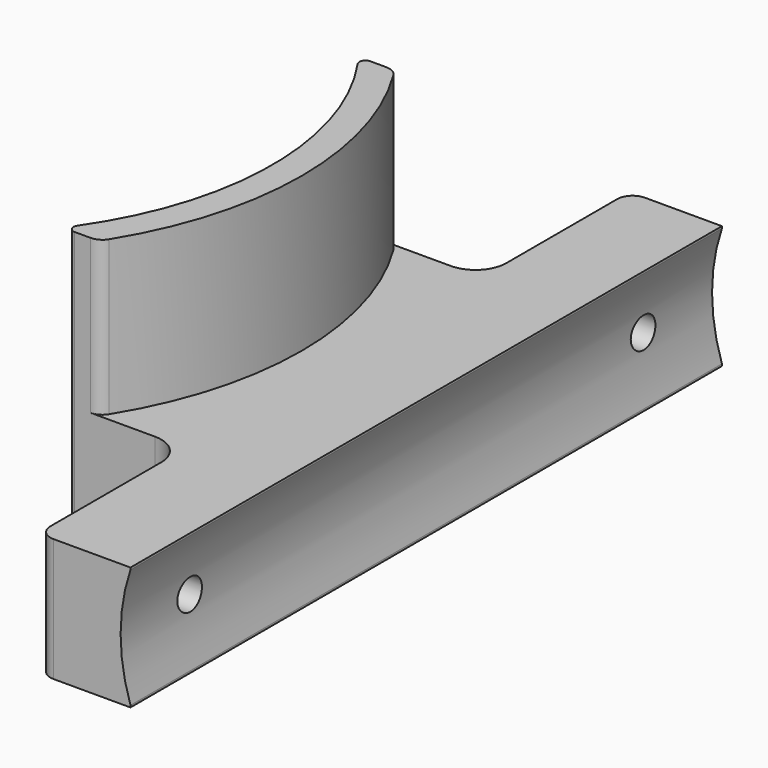
from build123d import *

# Parameters (mm, degrees)
F1_DEPTH      = 12.7
F3_DEPTH      = 28.575
F5_D          = 3.175
F6_D          = 3.175
F7_R          = 19.05
F8_DEPTH      = 46.99
F8_DEPTH_BACK = 44.196
F9_R          = 1.524
F10_R         = 1.524


with BuildPart() as f1:
    # F0 (on Top) → F1 (new body)
    with BuildSketch(Plane.XY):
        with BuildLine():
            ThreePointArc((29.1204104367, 19.05), (34.798, 0), (29.1204104367, -19.05))
            Line((29.1204104367, -19.05), (31.75, -19.05))
            Line((31.75, -19.05), (34.925, -19.05))
            ThreePointArc((34.925, -19.05), (37.1700640303, -19.9799359697), (38.1, -22.225))
            Line((38.1, -22.225), (38.1, -25.4))
            Line((38.1, -25.4), (38.1, -36.5125))
            ThreePointArc((38.1, -36.5125), (38.5649679849, -37.6350320151), (39.6875, -38.1))
            Line((39.6875, -38.1), (47.625, -38.1))
            Line((47.625, -38.1), (47.625, 38.1))
            Line((47.625, 38.1), (39.6875, 38.1))
            ThreePointArc((39.6875, 38.1), (38.5649679849, 37.6350320151), (38.1, 36.5125))
            Line((38.1, 36.5125), (38.1, 25.4))
            Line((38.1, 25.4), (38.1, 22.225))
            ThreePointArc((38.1, 22.225), (37.1700640303, 19.9799359697), (34.925, 19.05))
            Line((34.925, 19.05), (31.75, 19.05))
            Line((31.75, 19.05), (29.1204104367, 19.05))
        make_face()
    extrude(amount=F1_DEPTH)

    # F2 (on Top) → F3 (join)
    with BuildSketch(Plane.XY):
        with BuildLine():
            ThreePointArc((26.1160885863, 18.0558139377), (31.75, 0), (26.1160885863, -18.0558139377))
            ThreePointArc((26.1160885863, -18.0558139377), (26.0761118369, -18.7105456091), (26.6373982331, -19.05))
            Line((26.6373982331, -19.05), (29.1204104367, -19.05))
            ThreePointArc((29.1204104367, -19.05), (34.798, 0), (29.1204104367, 19.05))
            Line((29.1204104367, 19.05), (26.6373982331, 19.05))
            ThreePointArc((26.6373982331, 19.05), (26.0761118369, 18.7105456091), (26.1160885863, 18.0558139377))
        make_face()
    extrude(amount=F3_DEPTH)

    # F5 (through all)
    with Locations(Plane(origin=(0, 0, 0), x_dir=(0, 1, 0), z_dir=(-1, 0, 0))):
        with Locations((-29.21, -6.35)):
            Hole(F5_D / 2)

    # F6 (through all)
    with Locations(Plane(origin=(0, 0, 0), x_dir=(0, 1, 0), z_dir=(-1, 0, 0))):
        with Locations((29.21, -6.35)):
            Hole(F6_D / 2)

    # F7 (on Front) → F8 (cut, two sides)
    with BuildSketch(Plane.XZ) as f8_sk:
        with Locations((65.659, 6.35)):
            Circle(F7_R)
    extrude(amount=F8_DEPTH, mode=Mode.SUBTRACT)
    extrude(f8_sk.sketch, amount=-F8_DEPTH_BACK, mode=Mode.SUBTRACT)

    # F9
    f9_edges = [f1.edges().sort_by_distance(p)[0] for p in [
        (29.12041, 19.05, 20.6375),
    ]]
    fillet(f9_edges, radius=F9_R)

    # F10
    f10_edges = [f1.edges().sort_by_distance(p)[0] for p in [
        (29.12041, -19.05, 20.6375),
    ]]
    fillet(f10_edges, radius=F10_R)


solid = f1.part
